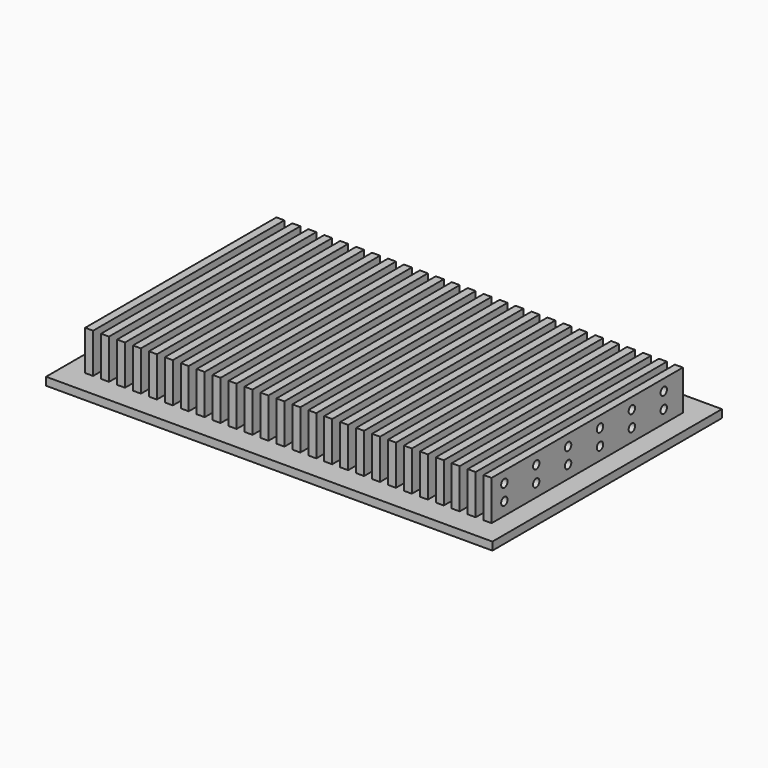
from build123d import *

# Parameters (mm, degrees)
F0_W          = 5
F0_H          = 25
F1_DEPTH      = 90
F2_W          = 15
F2_H          = 25
F3_DEPTH      = 140.001
F3_DEPTH_BACK = 140.001
F4_R          = 2.5
F5_DEPTH      = 140.001
F5_DEPTH_BACK = 140.001


with BuildPart() as f1:
    # F0 (on Front) → F1 (new body, symmetric)
    with BuildSketch(Plane.XZ):
        Polygon((140, -2.5), (140, 2.5), (127.5, 2.5), (122.5, 2.5), (117.5, 2.5), (112.5, 2.5), (107.5, 2.5), (102.5, 2.5), (97.5, 2.5), (92.5, 2.5), (87.5, 2.5), (82.5, 2.5), (77.5, 2.5), (72.5, 2.5), (67.5, 2.5), (62.5, 2.5), (57.5, 2.5), (52.5, 2.5), (47.5, 2.5), (42.5, 2.5), (37.5, 2.5), (32.5, 2.5), (27.5, 2.5), (22.5, 2.5), (17.5, 2.5), (12.5, 2.5), (7.5, 2.5), (2.5, 2.5), (-2.5, 2.5), (-7.5, 2.5), (-12.5, 2.5), (-17.5, 2.5), (-22.5, 2.5), (-27.5, 2.5), (-32.5, 2.5), (-37.5, 2.5), (-42.5, 2.5), (-47.5, 2.5), (-52.5, 2.5), (-57.5, 2.5), (-62.5, 2.5), (-67.5, 2.5), (-72.5, 2.5), (-77.5, 2.5), (-82.5, 2.5), (-87.5, 2.5), (-92.5, 2.5), (-97.5, 2.5), (-102.5, 2.5), (-107.5, 2.5), (-112.5, 2.5), (-117.5, 2.5), (-122.5, 2.5), (-127.5, 2.5), (-140, 2.5), (-140, -2.5), align=None)
        with Locations((125, 15)):
            Rectangle(F0_W, F0_H)
        with Locations((115, 15)):
            Rectangle(F0_W, F0_H)
        with Locations((-125, 15)):
            Rectangle(F0_W, F0_H)
        with Locations((105, 15)):
            Rectangle(F0_W, F0_H)
        with Locations((-115, 15)):
            Rectangle(F0_W, F0_H)
        with Locations((95, 15)):
            Rectangle(F0_W, F0_H)
        with Locations((-105, 15)):
            Rectangle(F0_W, F0_H)
        with Locations((85, 15)):
            Rectangle(F0_W, F0_H)
        with Locations((-95, 15)):
            Rectangle(F0_W, F0_H)
        with Locations((75, 15)):
            Rectangle(F0_W, F0_H)
        with Locations((-85, 15)):
            Rectangle(F0_W, F0_H)
        with Locations((65, 15)):
            Rectangle(F0_W, F0_H)
        with Locations((-75, 15)):
            Rectangle(F0_W, F0_H)
        with Locations((55, 15)):
            Rectangle(F0_W, F0_H)
        with Locations((-65, 15)):
            Rectangle(F0_W, F0_H)
        with Locations((45, 15)):
            Rectangle(F0_W, F0_H)
        with Locations((-55, 15)):
            Rectangle(F0_W, F0_H)
        with Locations((35, 15)):
            Rectangle(F0_W, F0_H)
        with Locations((-45, 15)):
            Rectangle(F0_W, F0_H)
        with Locations((25, 15)):
            Rectangle(F0_W, F0_H)
        with Locations((-35, 15)):
            Rectangle(F0_W, F0_H)
        with Locations((15, 15)):
            Rectangle(F0_W, F0_H)
        with Locations((-25, 15)):
            Rectangle(F0_W, F0_H)
        with Locations((5, 15)):
            Rectangle(F0_W, F0_H)
        with Locations((-15, 15)):
            Rectangle(F0_W, F0_H)
        with Locations((-5, 15)):
            Rectangle(F0_W, F0_H)
    extrude(amount=F1_DEPTH, both=True)

    # F2 (on Right) → F3 (cut, two sides)
    with BuildSketch(Plane.YZ) as f3_sk:
        with Locations((-82.5, 15)):
            Rectangle(F2_W, F2_H)
        with Locations((82.5, 15)):
            Rectangle(F2_W, F2_H)
    extrude(amount=F3_DEPTH, mode=Mode.SUBTRACT)
    extrude(f3_sk.sketch, amount=-F3_DEPTH_BACK, mode=Mode.SUBTRACT)

    # F4 (on Right) → F5 (cut, two sides)
    with BuildSketch(Plane.YZ) as f5_sk:
        with Locations((-65, 20.5)):
            Circle(F4_R)
        with Locations((-65, 10.5)):
            Circle(F4_R)
        with Locations((-40, 20.5)):
            Circle(F4_R)
        with Locations((-40, 10.5)):
            Circle(F4_R)
        with Locations((-15, 20.5)):
            Circle(F4_R)
        with Locations((-15, 10.5)):
            Circle(F4_R)
        with Locations((10, 20.5)):
            Circle(F4_R)
        with Locations((10, 10.5)):
            Circle(F4_R)
        with Locations((35, 20.5)):
            Circle(F4_R)
        with Locations((35, 10.5)):
            Circle(F4_R)
        with Locations((60, 20.5)):
            Circle(F4_R)
        with Locations((60, 10.5)):
            Circle(F4_R)
    extrude(amount=-F5_DEPTH, mode=Mode.SUBTRACT)
    extrude(f5_sk.sketch, amount=F5_DEPTH_BACK, mode=Mode.SUBTRACT)


solid = f1.part
